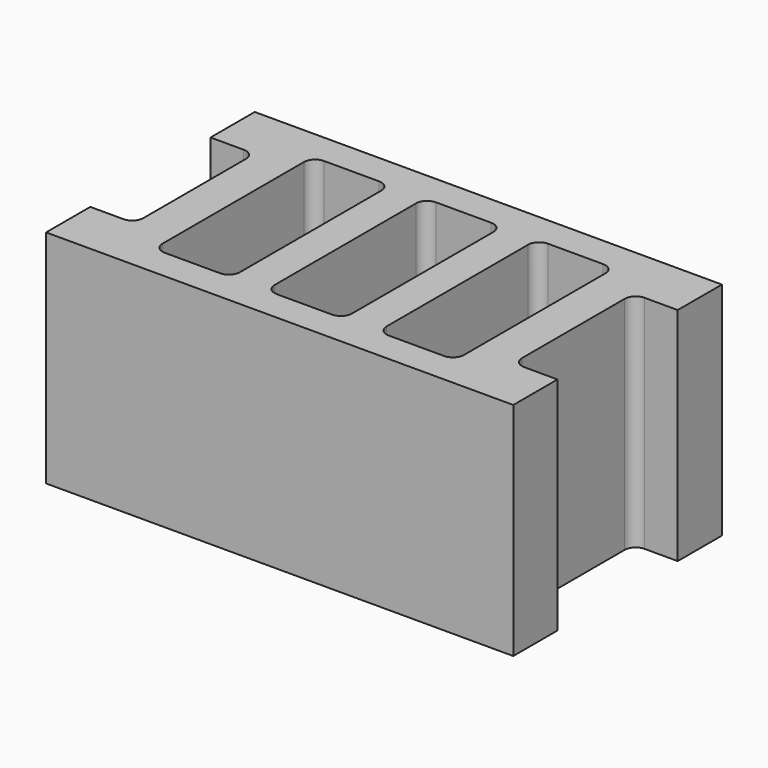
from build123d import *

# Parameters (mm, degrees)
F1_DEPTH = 50.8


with BuildPart() as f1:
    # F0 (on Top) → F1 (new body)
    with BuildSketch(Plane.XY):
        with BuildLine():
            Line((53.687494, 29.971173), (-53.687494, 29.971173))
            Line((-53.687494, 29.971173), (-53.687494, 17.271173))
            Line((-53.687494, 17.271173), (-46.067494, 17.271173))
            ThreePointArc((-46.067494, 17.271173), (-44.271443, 16.527224), (-43.527494, 14.731173))
            Line((-43.527494, 14.731173), (-43.527494, 0))
            Line((-43.527494, 0), (-34.637494, 0))
            Line((-34.637494, 0), (-34.637494, 20.32))
            ThreePointArc((-34.637494, 20.32), (-33.893545, 22.116051), (-32.097494, 22.86))
            Line((-32.097494, 22.86), (-19.397494, 22.86))
            ThreePointArc((-19.397494, 22.86), (-17.601443, 22.116051), (-16.857494, 20.32))
            Line((-16.857494, 20.32), (-16.857494, 0))
            Line((-16.857494, 0), (-8.89, 0))
            Line((-8.89, 0), (-8.89, 20.32))
            ThreePointArc((-8.89, 20.32), (-8.146051, 22.116051), (-6.35, 22.86))
            Line((-6.35, 22.86), (6.35, 22.86))
            ThreePointArc((6.35, 22.86), (8.146051, 22.116051), (8.89, 20.32))
            Line((8.89, 20.32), (8.89, 0))
            Line((8.89, 0), (16.857494, 0))
            Line((16.857494, 0), (16.857494, 20.32))
            ThreePointArc((16.857494, 20.32), (17.601443, 22.116051), (19.397494, 22.86))
            Line((19.397494, 22.86), (32.097494, 22.86))
            ThreePointArc((32.097494, 22.86), (33.893545, 22.116051), (34.637494, 20.32))
            Line((34.637494, 20.32), (34.637494, 0))
            Line((34.637494, 0), (43.527494, 0))
            Line((43.527494, 0), (43.527494, 14.731173))
            ThreePointArc((43.527494, 14.731173), (44.271443, 16.527224), (46.067494, 17.271173))
            Line((46.067494, 17.271173), (53.687494, 17.271173))
            Line((53.687494, 17.271173), (53.687494, 29.971173))
        make_face()
        with BuildLine():
            Line((-46.067494, -17.271173), (-53.687494, -17.271173))
            Line((-53.687494, -17.271173), (-53.687494, -29.971173))
            Line((-53.687494, -29.971173), (53.687494, -29.971173))
            Line((53.687494, -29.971173), (53.687494, -17.271173))
            Line((53.687494, -17.271173), (46.067494, -17.271173))
            ThreePointArc((46.067494, -17.271173), (44.271443, -16.527224), (43.527494, -14.731173))
            Line((43.527494, -14.731173), (43.527494, 0))
            Line((43.527494, 0), (34.637494, 0))
            Line((34.637494, 0), (34.637494, -20.32))
            ThreePointArc((34.637494, -20.32), (33.893545, -22.116051), (32.097494, -22.86))
            Line((32.097494, -22.86), (19.397494, -22.86))
            ThreePointArc((19.397494, -22.86), (17.601443, -22.116051), (16.857494, -20.32))
            Line((16.857494, -20.32), (16.857494, 0))
            Line((16.857494, 0), (8.89, 0))
            Line((8.89, 0), (8.89, -20.32))
            ThreePointArc((8.89, -20.32), (8.146051, -22.116051), (6.35, -22.86))
            Line((6.35, -22.86), (-6.35, -22.86))
            ThreePointArc((-6.35, -22.86), (-8.146051, -22.116051), (-8.89, -20.32))
            Line((-8.89, -20.32), (-8.89, 0))
            Line((-8.89, 0), (-16.857494, 0))
            Line((-16.857494, 0), (-16.857494, -20.32))
            ThreePointArc((-16.857494, -20.32), (-17.601443, -22.116051), (-19.397494, -22.86))
            Line((-19.397494, -22.86), (-32.097494, -22.86))
            ThreePointArc((-32.097494, -22.86), (-33.893545, -22.116051), (-34.637494, -20.32))
            Line((-34.637494, -20.32), (-34.637494, 0))
            Line((-34.637494, 0), (-43.527494, 0))
            Line((-43.527494, 0), (-43.527494, -14.731173))
            ThreePointArc((-43.527494, -14.731173), (-44.271443, -16.527224), (-46.067494, -17.271173))
        make_face()
    extrude(amount=F1_DEPTH)


solid = f1.part
